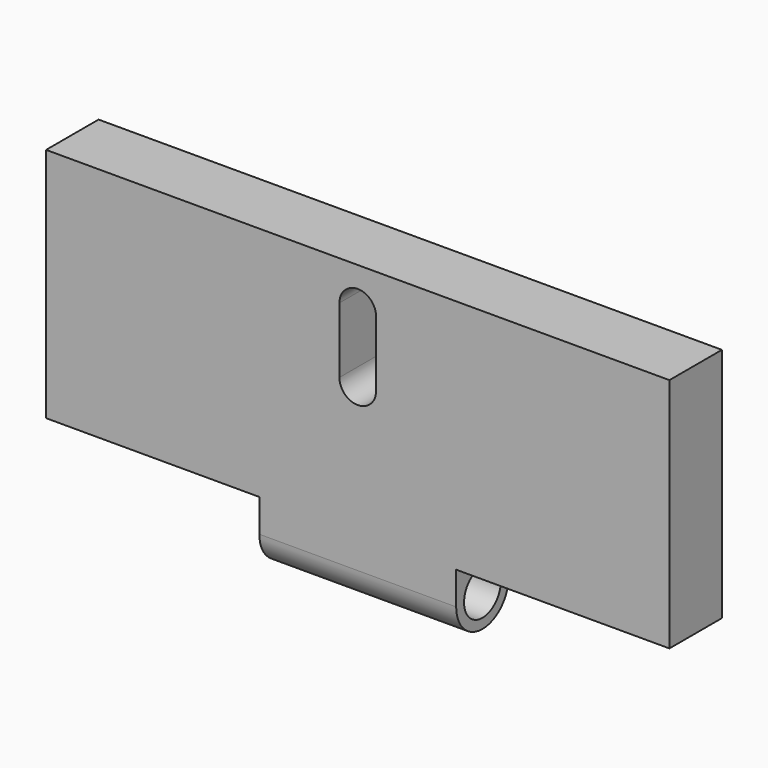
from build123d import *

# Parameters (mm, degrees)
F0_W     = 47.5
F0_H     = 18
F1_DEPTH = 5
F3_R     = 1.75
F4_DEPTH = 7.5


with BuildPart() as f1:
    # F0 (on Front) → F1 (new body)
    with BuildSketch(Plane.XZ):
        Rectangle(F0_W, F0_H)
        with BuildLine():
            ThreePointArc((1.396902, 1), (0, -0.396902), (-1.396902, 1))
            Line((-1.396902, 1), (-1.396902, 6))
            ThreePointArc((-1.396902, 6), (0, 7.396902), (1.396902, 6))
            Line((1.396902, 6), (1.396902, 1))
        make_face(mode=Mode.SUBTRACT)
    extrude(amount=F1_DEPTH)

    # F3 (on Right) → F4 (join, symmetric)
    with BuildSketch(Plane.YZ):
        with BuildLine():
            ThreePointArc((-2.5, -9), (-4.267767, -9.732233), (-5, -11.5))
            ThreePointArc((-5, -11.5), (-2.5, -14), (0, -11.5))
            ThreePointArc((0, -11.5), (-0.732233, -9.732233), (-2.5, -9))
        make_face()
        with Locations((-2.5, -11.5)):
            Circle(F3_R, mode=Mode.SUBTRACT)
        with BuildLine():
            ThreePointArc((-2.5, -9), (-0.732233, -9.732233), (0, -11.5))
            Line((0, -11.5), (0, -9))
            Line((0, -9), (-2.5, -9))
        make_face()
        with BuildLine():
            Line((-5, -9), (-5, -11.5))
            ThreePointArc((-5, -11.5), (-4.267767, -9.732233), (-2.5, -9))
            Line((-2.5, -9), (-5, -9))
        make_face()
    extrude(amount=F4_DEPTH, both=True)


solid = f1.part
